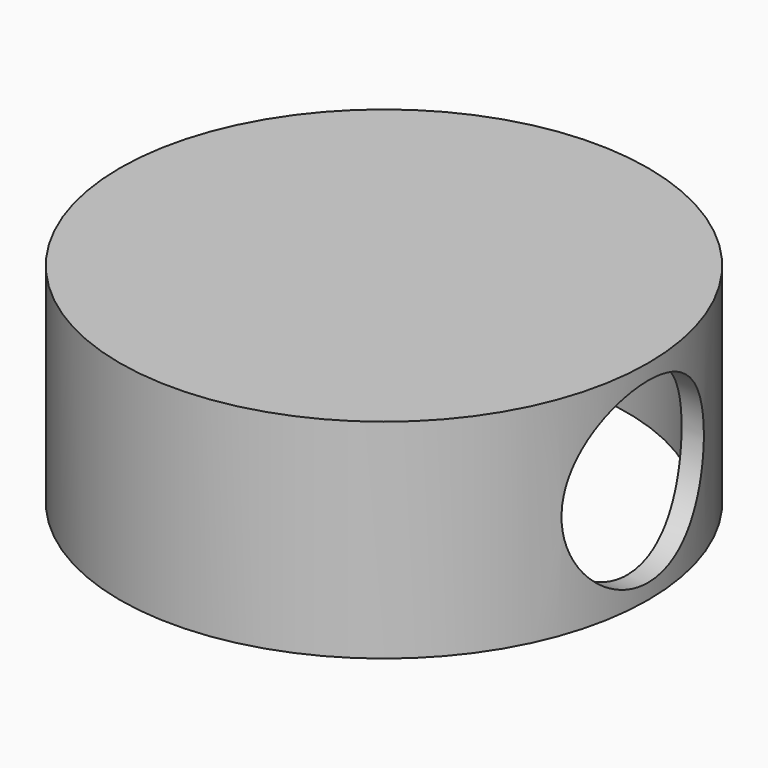
from build123d import *

# Parameters (mm, degrees)
F0_R     = 38
F1_DEPTH = 30
F2_R     = 35
F2_R_2   = 17.5
F3_DEPTH = 27
F5_START = 11
F4_R     = 12.8
F5_DEPTH = 35
F7_DEPTH = 27
F8_R     = 1.55
F9_DEPTH = 5


with BuildPart() as f1:
    # F0 (on Top) → F1 (new body)
    with BuildSketch(Plane.XY):
        Circle(F0_R)
    extrude(amount=F1_DEPTH)

    # F2 (on face) → F3 (cut)
    with BuildSketch(Plane(origin=(0, 0, 0), x_dir=(1, 0, 0), z_dir=(0, 0, -1))):
        Circle(F2_R)
        Circle(F2_R_2, mode=Mode.SUBTRACT)
    extrude(amount=-F3_DEPTH, mode=Mode.SUBTRACT)

    # F4 (on Right) → F5 (cut)
    with BuildSketch(Plane.YZ.offset(F5_START)):
        with Locations((0, 15)):
            Circle(F4_R)
    extrude(amount=F5_DEPTH, mode=Mode.SUBTRACT)

    # F6 (on face) → F7 (cut)
    with BuildSketch(Plane(origin=(0, 0, 0), x_dir=(1, 0, 0), z_dir=(0, 0, -1))):
        with BuildLine():
            Line((8, -10.8742815855), (8, 10.8742815855))
            ThreePointArc((8, 10.8742815855), (-13.5, 0), (8, -10.8742815855))
        make_face()
    extrude(amount=-F7_DEPTH, mode=Mode.SUBTRACT)

    # F8 (on face) → F9 (cut)
    with BuildSketch(Plane.YZ.offset(11)):
        with Locations((0, 15)):
            Circle(F8_R)
    extrude(amount=-F9_DEPTH, mode=Mode.SUBTRACT)


solid = f1.part
